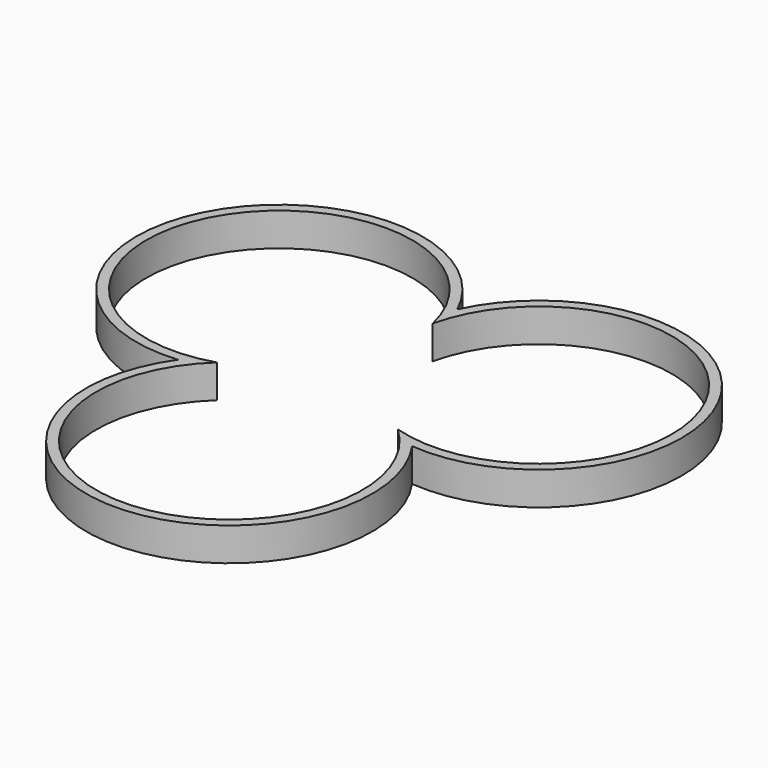
from build123d import *

# Parameters (mm, degrees)
F1_DEPTH = 10


with BuildPart() as f1:
    # F0 (on Top) → F1 (new body)
    with BuildSketch(Plane.XY):
        with BuildLine():
            ThreePointArc((27.197402, -15.702427), (73.641016, 42.51666), (0, 31.404855))
            ThreePointArc((0, 31.404855), (-73.641016, 42.51666), (-27.197402, -15.702427))
            ThreePointArc((-27.197402, -15.702427), (0, -85.033321), (27.197402, -15.702427))
        make_face()
        with BuildLine():
            ThreePointArc((35.184387, -20.313715), (76.239092, 44.01666), (0, 40.627431))
            ThreePointArc((0, 40.627431), (-76.239092, 44.01666), (-35.184387, -20.313715))
            ThreePointArc((-35.184387, -20.313715), (0, -88.033321), (35.184387, -20.313715))
        make_face()
        with BuildLine():
            ThreePointArc((-27.197402, -15.702427), (-73.641016, 42.51666), (0, 31.404855))
            ThreePointArc((0, 31.404855), (73.641016, 42.51666), (27.197402, -15.702427))
            ThreePointArc((27.197402, -15.702427), (0, -85.033321), (-27.197402, -15.702427))
        make_face(mode=Mode.SUBTRACT)
    extrude(amount=F1_DEPTH)


solid = f1.part
